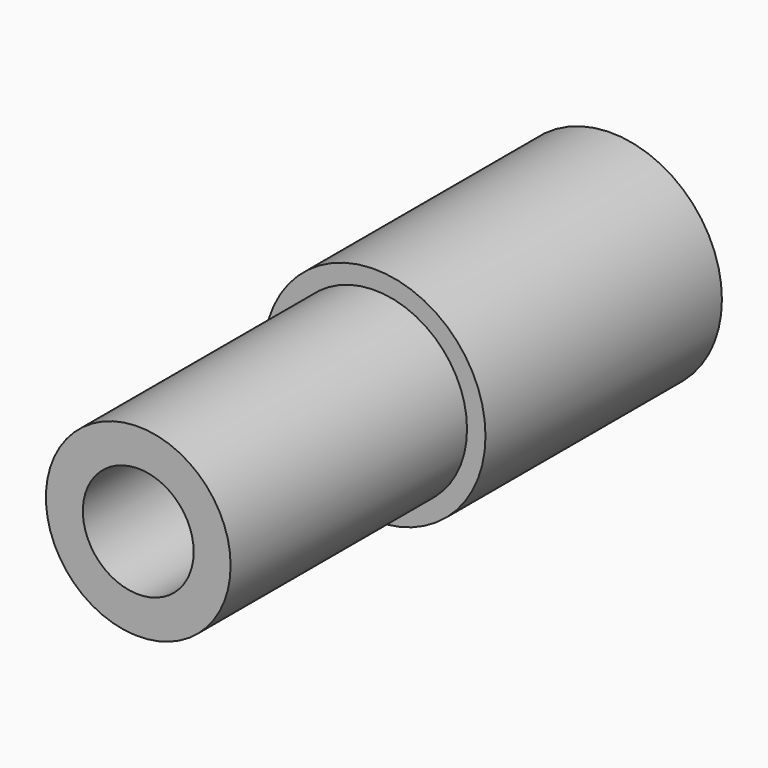
from build123d import *

# Parameters (mm, degrees)
F0_R     = 3
F1_DEPTH = 8
F2_R     = 2.5
F3_DEPTH = 16
F4_R     = 1.5
F5_DEPTH = 16


with BuildPart() as f1:
    # F0 (on Front) → F1 (new body)
    with BuildSketch(Plane.XZ):
        Circle(F0_R)
    extrude(amount=F1_DEPTH)

    # F2 (on Front) → F3 (join)
    with BuildSketch(Plane.XZ):
        Circle(F2_R)
    extrude(amount=F3_DEPTH)

    # F4 (on Front) → F5 (cut)
    with BuildSketch(Plane.XZ):
        Circle(F4_R)
    extrude(amount=F5_DEPTH, mode=Mode.SUBTRACT)


solid = f1.part
